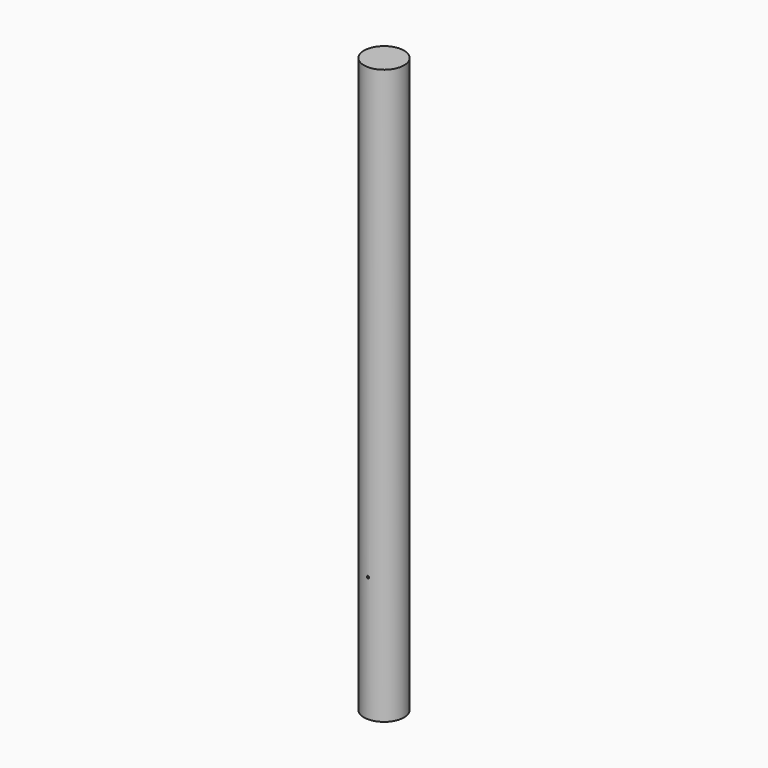
from build123d import *

# Parameters (mm, degrees)
F0_R     = 203.2
F1_DEPTH = 5824
F2_R     = 12
F3_DEPTH = 203.2


with BuildPart() as f1:
    # F0 (on Top) → F1 (new body)
    with BuildSketch(Plane.XY):
        Circle(F0_R)
    extrude(amount=F1_DEPTH)

    # F2 (on Front) → F3 (cut, symmetric)
    with BuildSketch(Plane.XZ):
        with Locations((0, 1270)):
            Circle(F2_R)
    extrude(amount=F3_DEPTH, both=True, mode=Mode.SUBTRACT)


solid = f1.part
